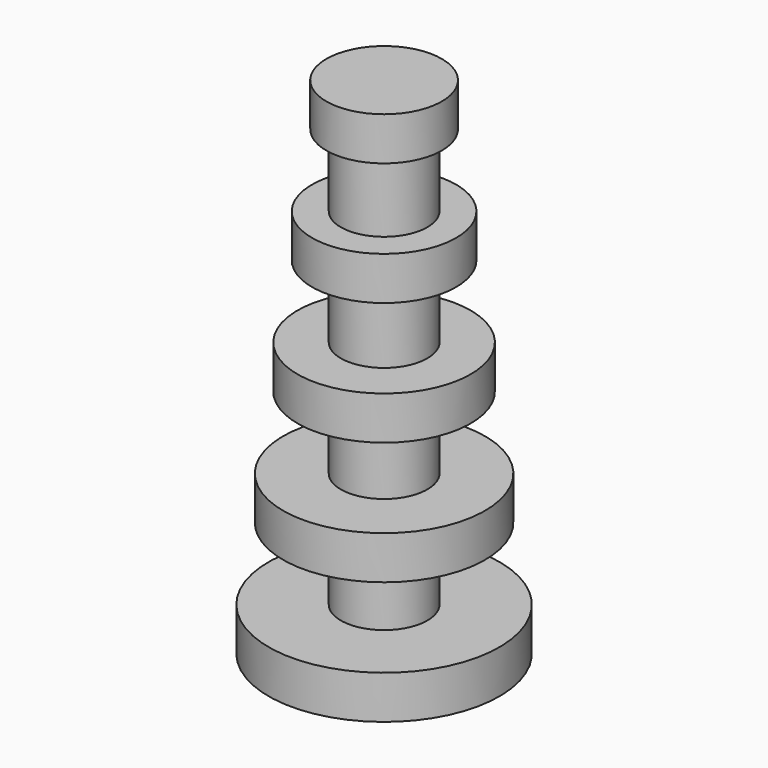
from build123d import *


with BuildPart() as f1:
    # F0 (on Right) → F1 (revolve)
    with BuildSketch(Plane.YZ):
        Polygon((0, 0), (8, 0), (8, 3), (3, 3), (3, 8), (7, 8), (7, 11), (3, 11), (3, 16), (6, 16), (6, 19), (3, 19), (3, 24), (5, 24), (5, 27), (3, 27), (3, 32), (4, 32), (4, 35), (0, 35), align=None)
    revolve(axis=Axis((0, 0, 17.5), (0, 0, -1)))


solid = f1.part
